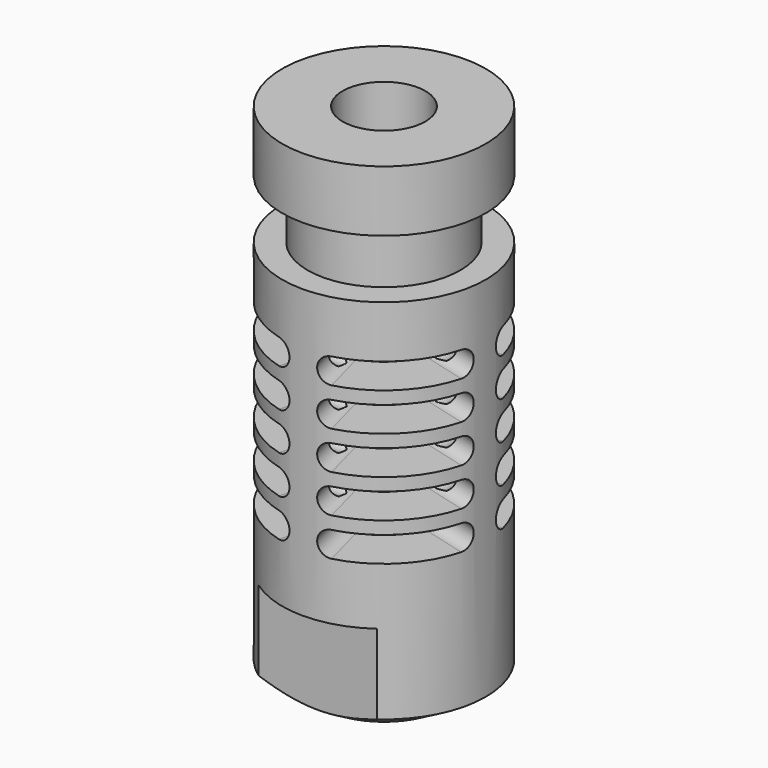
from build123d import *

# Parameters (mm, degrees)
CYLINDER041_R               = 1
CYLINDER041_DEPTH           = 2
CYLINDER041_PITCH_ANGLE     = 90
ARRAY011_COUNT              = 4
CYLINDER040_R               = 1
CYLINDER040_DEPTH           = 2
CYLINDER040_PITCH_ANGLE     = 90
ARRAY010_COUNT              = 4
CYLINDER039_R               = 1
CYLINDER039_DEPTH           = 2
CYLINDER039_PITCH_ANGLE     = 90
ARRAY009_COUNT              = 4
CYLINDER038_R               = 1
CYLINDER038_DEPTH           = 2
CYLINDER038_PITCH_ANGLE     = 90
ARRAY008_COUNT              = 4
CYLINDER035_R               = 4.2
CYLINDER035_DEPTH           = 2
CYLINDER036_W               = 14.2
CYLINDER036_H               = 2
CYLINDER036_ANGLE           = 60
CYLINDER034_R               = 1
CYLINDER034_DEPTH           = 10
CYLINDER034_PITCH_ANGLE     = 90
CYLINDER037_R               = 1
CYLINDER037_DEPTH           = 10
CYLINDER037_PITCH_ANGLE     = 90
CYLINDER037_PLACEMENT_ANGLE = 60
ARRAY005_COUNT              = 4
ARRAY005_PLACEMENT_ANGLE    = 15
ARRAY006_COUNT              = 4
ARRAY006_PLACEMENT_ANGLE    = 15
ARRAY007_COUNT              = 4
ARRAY007_PLACEMENT_ANGLE    = 15
ARRAY004_COUNT              = 4
ARRAY004_PLACEMENT_ANGLE    = 15
ARRAY003_COUNT              = 4
ARRAY003_PLACEMENT_ANGLE    = 15
BOX004_W                    = 3
BOX004_H                    = 20
BOX004_DEPTH                = 8
BOX003_W                    = 3
BOX003_H                    = 20
BOX003_DEPTH                = 8
CYLINDER033_R               = 4
CYLINDER033_DEPTH           = 4.2
CYLINDER032_R               = 3.25
CYLINDER032_DEPTH           = 42
CYLINDER031_R               = 6
CYLINDER031_DEPTH           = 10
CYLINDER030_R               = 8
CYLINDER030_DEPTH           = 4.6
CYLINDER029_R               = 8
CYLINDER029_DEPTH           = 40
CUT034_PLACEMENT_ANGLE      = -90


with BuildPart() as array011:
    # Cylinder041 → Cylinder041 (new body)
    with BuildSketch(Plane.XY):
        Circle(CYLINDER041_R)
    extrude(amount=CYLINDER041_DEPTH)


with BuildPart() as array011_1:
    # Cylinder041 pitch: moved
    add(array011.part.rotate(Axis((0, 0, 0), (0, 1, 0)), CYLINDER041_PITCH_ANGLE))


with BuildPart() as array011_2:
    # Cylinder041 placement: moved
    add(array011_1.part.moved(Location((-1, 5.2, 16.5))))

    # Array011: Array011 ×4 about axis
    array011_axis = Axis((0, 0, 0), (0, 0, 1))


with BuildPart() as array011_3:
    add(array011_2.part)
    for i in range(1, ARRAY011_COUNT):
        add(array011_2.part.rotate(array011_axis, i * 360 / ARRAY011_COUNT))


with BuildPart() as array011_4:
    # Array011 placement: moved
    add(array011_3.part.moved(Location((0, 0, 9))))


with BuildPart() as array010:
    # Cylinder040 → Cylinder040 (new body)
    with BuildSketch(Plane.XY):
        Circle(CYLINDER040_R)
    extrude(amount=CYLINDER040_DEPTH)


with BuildPart() as array010_1:
    # Cylinder040 pitch: moved
    add(array010.part.rotate(Axis((0, 0, 0), (0, 1, 0)), CYLINDER040_PITCH_ANGLE))


with BuildPart() as array010_2:
    # Cylinder040 placement: moved
    add(array010_1.part.moved(Location((-1, 5.2, 16.5))))

    # Array010: Array010 ×4 about axis
    array010_axis = Axis((0, 0, 0), (0, 0, 1))


with BuildPart() as array010_3:
    add(array010_2.part)
    for i in range(1, ARRAY010_COUNT):
        add(array010_2.part.rotate(array010_axis, i * 360 / ARRAY010_COUNT))


with BuildPart() as array010_4:
    # Array010 placement: moved
    add(array010_3.part.moved(Location((0, 0, 6))))


with BuildPart() as array009:
    # Cylinder039 → Cylinder039 (new body)
    with BuildSketch(Plane.XY):
        Circle(CYLINDER039_R)
    extrude(amount=CYLINDER039_DEPTH)


with BuildPart() as array009_1:
    # Cylinder039 pitch: moved
    add(array009.part.rotate(Axis((0, 0, 0), (0, 1, 0)), CYLINDER039_PITCH_ANGLE))


with BuildPart() as array009_2:
    # Cylinder039 placement: moved
    add(array009_1.part.moved(Location((-1, 5.2, 16.5))))

    # Array009: Array009 ×4 about axis
    array009_axis = Axis((0, 0, 0), (0, 0, 1))


with BuildPart() as array009_3:
    add(array009_2.part)
    for i in range(1, ARRAY009_COUNT):
        add(array009_2.part.rotate(array009_axis, i * 360 / ARRAY009_COUNT))


with BuildPart() as array009_4:
    # Array009 placement: moved
    add(array009_3.part.moved(Location((0, 0, 3))))


with BuildPart() as array008:
    # Cylinder038 → Cylinder038 (new body)
    with BuildSketch(Plane.XY):
        Circle(CYLINDER038_R)
    extrude(amount=CYLINDER038_DEPTH)


with BuildPart() as array008_1:
    # Cylinder038 pitch: moved
    add(array008.part.rotate(Axis((0, 0, 0), (0, 1, 0)), CYLINDER038_PITCH_ANGLE))


with BuildPart() as array008_2:
    # Cylinder038 placement: moved
    add(array008_1.part.moved(Location((-1, 5.2, 16.5))))

    # Array008: Array008 ×4 about axis
    array008_axis = Axis((0, 0, 0), (0, 0, 1))


with BuildPart() as array008_3:
    add(array008_2.part)
    for i in range(1, ARRAY008_COUNT):
        add(array008_2.part.rotate(array008_axis, i * 360 / ARRAY008_COUNT))


with BuildPart() as cilindro027:
    # Cylinder035 → Cylinder035 (new body)
    with BuildSketch(Plane.XY.offset(-1)):
        Circle(CYLINDER035_R)
    extrude(amount=CYLINDER035_DEPTH)


with BuildPart() as cut023:
    # Cylinder036 → Cylinder036 (revolve)
    with BuildSketch(Plane(origin=(0, 0, -1), x_dir=(1, 0, 0), z_dir=(0, -1, 0))):
        with Locations((7.1, 1)):
            Rectangle(CYLINDER036_W, CYLINDER036_H)
    revolve(axis=Axis((0, 0, -1), (0, 0, 1)), revolution_arc=CYLINDER036_ANGLE)

    # Cut023: cut Cilindro027
    add(cilindro027.part, mode=Mode.SUBTRACT)


with BuildPart() as fusion010:
    # Cylinder034 → Cylinder034 (new body)
    with BuildSketch(Plane.XY):
        Circle(CYLINDER034_R)
    extrude(amount=CYLINDER034_DEPTH)


with BuildPart() as fusion010_1:
    # Cylinder034 pitch: moved
    add(fusion010.part.rotate(Axis((0, 0, 0), (0, 1, 0)), CYLINDER034_PITCH_ANGLE))


with BuildPart() as fusion010_2:
    # Cylinder034 placement: moved
    add(fusion010_1.part.moved(Location((4.2, 0, 0))))

    # Fusion010: union Cut023
    add(cut023.part)


with BuildPart() as cilindro029:
    # Cylinder037 → Cylinder037 (new body)
    with BuildSketch(Plane.XY):
        Circle(CYLINDER037_R)
    extrude(amount=CYLINDER037_DEPTH)


with BuildPart() as cilindro029_1:
    # Cylinder037 pitch: moved
    add(cilindro029.part.rotate(Axis((0, 0, 0), (0, 1, 0)), CYLINDER037_PITCH_ANGLE))


with BuildPart() as cilindro029_2:
    # Cylinder037 placement: moved
    add(cilindro029_1.part.moved(Location((2.1, 3.637307, 0))).rotate(Axis((2.1, 3.637307, 0), (0, 0, 1)), CYLINDER037_PLACEMENT_ANGLE))


with BuildPart() as fusion011:
    # Fusion011 base: copy of Cilindro029
    add(cilindro029_2.part)

    # Fusion011: union Fusion010
    add(fusion010_2.part)


with BuildPart() as array005:
    # Array005 base: copy of Fusion011
    add(fusion011.part)

    # Array005: Array005 ×4 about axis
    array005_axis = Axis((0, 0, 0), (0, 0, 1))


with BuildPart() as array005_1:
    add(array005.part)
    for i in range(1, ARRAY005_COUNT):
        add(array005.part.rotate(array005_axis, i * 360 / ARRAY005_COUNT))


with BuildPart() as array005_2:
    # Array005 placement: moved
    add(array005_1.part.moved(Location((0, 0, 22.5))).rotate(Axis((0, 0, 22.5), (0, 0, 1)), ARRAY005_PLACEMENT_ANGLE))


with BuildPart() as array006:
    # Fusion013 base: copy of Cilindro029
    add(cilindro029_2.part)

    # Fusion013: union Fusion010
    add(fusion010_2.part)

    # Array006: Array006 ×4 about axis
    array006_axis = Axis((0, 0, 0), (0, 0, 1))


with BuildPart() as array006_1:
    add(array006.part)
    for i in range(1, ARRAY006_COUNT):
        add(array006.part.rotate(array006_axis, i * 360 / ARRAY006_COUNT))


with BuildPart() as array006_2:
    # Array006 placement: moved
    add(array006_1.part.moved(Location((0, 0, 19.5))).rotate(Axis((0, 0, 19.5), (0, 0, 1)), ARRAY006_PLACEMENT_ANGLE))


with BuildPart() as array007:
    # Fusion014 base: copy of Cilindro029
    add(cilindro029_2.part)

    # Fusion014: union Fusion010
    add(fusion010_2.part)

    # Array007: Array007 ×4 about axis
    array007_axis = Axis((0, 0, 0), (0, 0, 1))


with BuildPart() as array007_1:
    add(array007.part)
    for i in range(1, ARRAY007_COUNT):
        add(array007.part.rotate(array007_axis, i * 360 / ARRAY007_COUNT))


with BuildPart() as array007_2:
    # Array007 placement: moved
    add(array007_1.part.moved(Location((0, 0, 25.5))).rotate(Axis((0, 0, 25.5), (0, 0, 1)), ARRAY007_PLACEMENT_ANGLE))


with BuildPart() as array004:
    # Fusion012 base: copy of Cilindro029
    add(cilindro029_2.part)

    # Fusion012: union Fusion010
    add(fusion010_2.part)

    # Array004: Array004 ×4 about axis
    array004_axis = Axis((0, 0, 0), (0, 0, 1))


with BuildPart() as array004_1:
    add(array004.part)
    for i in range(1, ARRAY004_COUNT):
        add(array004.part.rotate(array004_axis, i * 360 / ARRAY004_COUNT))


with BuildPart() as array004_2:
    # Array004 placement: moved
    add(array004_1.part.moved(Location((0, 0, 16.5))).rotate(Axis((0, 0, 16.5), (0, 0, 1)), ARRAY004_PLACEMENT_ANGLE))


with BuildPart() as array003:
    # Array003 base: copy of Fusion011
    add(fusion011.part)

    # Array003: Array003 ×4 about axis
    array003_axis = Axis((0, 0, 0), (0, 0, 1))


with BuildPart() as array003_1:
    add(array003.part)
    for i in range(1, ARRAY003_COUNT):
        add(array003.part.rotate(array003_axis, i * 360 / ARRAY003_COUNT))


with BuildPart() as array003_2:
    # Array003 placement: moved
    add(array003_1.part.moved(Location((0, 0, 13.5))).rotate(Axis((0, 0, 13.5), (0, 0, 1)), ARRAY003_PLACEMENT_ANGLE))


with BuildPart() as cubo001:
    # Box004 → Box004 (new body)
    with BuildSketch(Plane(origin=(-9.5, -10, 0), x_dir=(1, 0, 0), z_dir=(0, 0, 1))):
        with Locations((1.5, 10)):
            Rectangle(BOX004_W, BOX004_H)
    extrude(amount=BOX004_DEPTH)


with BuildPart() as cubo:
    # Box003 → Box003 (new body)
    with BuildSketch(Plane(origin=(6.5, -10, 0), x_dir=(1, 0, 0), z_dir=(0, 0, 1))):
        with Locations((1.5, 10)):
            Rectangle(BOX003_W, BOX003_H)
    extrude(amount=BOX003_DEPTH)


with BuildPart() as revolution:
    # Sketch005 → Revolution (revolve)
    with BuildSketch(Plane.XZ):
        Polygon((-11.69058, 3.862808), (-1.298468, -2.137081), (-11.69058, -2.137081), align=None)
    revolve(axis=Axis((0, 0, 0), (0, 0, 1)))


with BuildPart() as cilindro025:
    # Cylinder033 → Cylinder033 (new body)
    with BuildSketch(Plane.XY.offset(-1)):
        Circle(CYLINDER033_R)
    extrude(amount=CYLINDER033_DEPTH)


with BuildPart() as cilindro024:
    # Cylinder032 → Cylinder032 (new body)
    with BuildSketch(Plane.XY.offset(-1)):
        Circle(CYLINDER032_R)
    extrude(amount=CYLINDER032_DEPTH)


with BuildPart() as cilindro023:
    # Cylinder031 → Cylinder031 (new body)
    with BuildSketch(Plane.XY.offset(-2)):
        Circle(CYLINDER031_R)
    extrude(amount=CYLINDER031_DEPTH)


with BuildPart() as cut018:
    # Cylinder030 → Cylinder030 (new body)
    with BuildSketch(Plane.XY):
        Circle(CYLINDER030_R)
    extrude(amount=CYLINDER030_DEPTH)

    # Cut018: cut Cilindro023
    add(cilindro023.part, mode=Mode.SUBTRACT)


with BuildPart() as cut018_1:
    # Cut018 placement: moved
    add(cut018.part.moved(Location((0, 0, 30.6))))


with BuildPart() as cuerpo_j_head:
    # Cylinder029 → Cylinder029 (new body)
    with BuildSketch(Plane.XY):
        Circle(CYLINDER029_R)
    extrude(amount=CYLINDER029_DEPTH)

    # Cut019: cut Cut018
    add(cut018_1.part, mode=Mode.SUBTRACT)

    # Cut020: cut Cilindro024
    add(cilindro024.part, mode=Mode.SUBTRACT)

    # Cut021: cut Cilindro025
    add(cilindro025.part, mode=Mode.SUBTRACT)

    # Cut022: cut Revolution
    add(revolution.part, mode=Mode.SUBTRACT)

    # Cut024: cut Cubo
    add(cubo.part, mode=Mode.SUBTRACT)

    # Cut025: cut Cubo001
    add(cubo001.part, mode=Mode.SUBTRACT)

    # Cut026: cut Array003
    add(array003_2.part, mode=Mode.SUBTRACT)

    # Cut027: cut Array004
    add(array004_2.part, mode=Mode.SUBTRACT)

    # Cut028: cut Array007
    add(array007_2.part, mode=Mode.SUBTRACT)

    # Cut029: cut Array006
    add(array006_2.part, mode=Mode.SUBTRACT)

    # Cut030: cut Array005
    add(array005_2.part, mode=Mode.SUBTRACT)

    # Cut031: cut Array008
    add(array008_3.part, mode=Mode.SUBTRACT)

    # Cut032: cut Array009
    add(array009_4.part, mode=Mode.SUBTRACT)

    # Cut033: cut Array010
    add(array010_4.part, mode=Mode.SUBTRACT)

    # Cut034: cut Array011
    add(array011_4.part, mode=Mode.SUBTRACT)


with BuildPart() as cuerpo_j_head_1:
    # Cut034 placement: moved
    add(cuerpo_j_head.part.moved(Location((-9.8, -10.3, 77.5))).rotate(Axis((-9.8, -10.3, 77.5), (0, 0, 1)), CUT034_PLACEMENT_ANGLE))


solid = cuerpo_j_head_1.part
